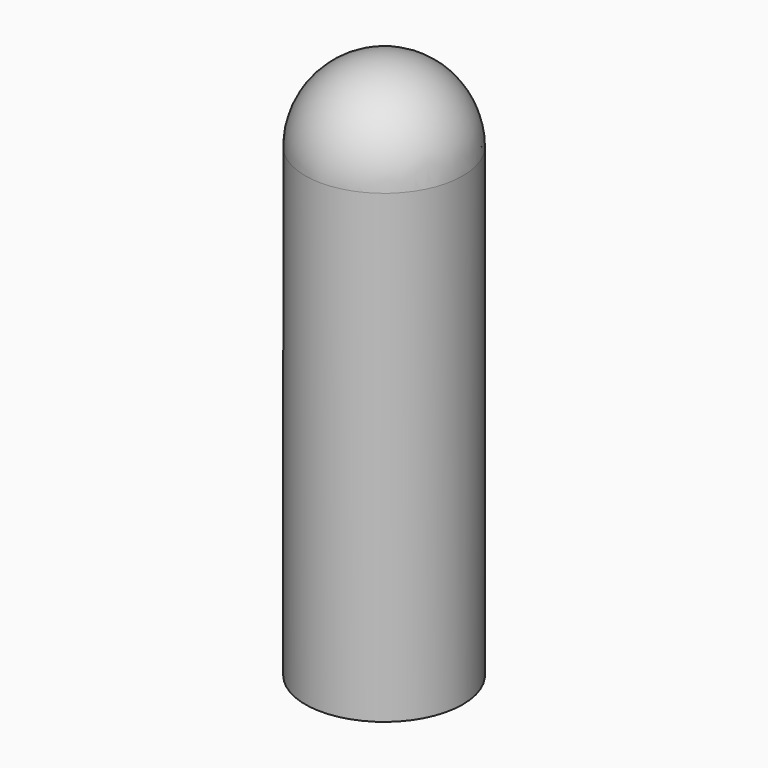
from build123d import *

# Parameters (mm, degrees)
F0_R     = 187.5
F1_DEPTH = 1102.5
F4_R     = 180.5
F5_DEPTH = 1102.5
F6_R     = 187.5
F6_R_2   = 180.5
F7_DEPTH = 5


with BuildPart() as f1:
    # F0 (on Top) → F1 (new body)
    with BuildSketch(Plane.XY):
        Circle(F0_R)
    extrude(amount=F1_DEPTH)

    # F2 (on face) → F3 (revolve)
    with BuildSketch(Plane.XY.offset(1102.5)):
        with BuildLine():
            Line((0, 180.5), (0, 187.5))
            ThreePointArc((0, 187.5), (-187.5, 0), (0, -187.5))
            Line((0, -187.5), (0, -180.5))
            ThreePointArc((0, -180.5), (-180.5, 0), (0, 180.5))
        make_face()
    revolve(axis=Axis((0, -93.75, 1102.5), (0, -1, 0)))

    # F4 (on face) → F5 (cut)
    with BuildSketch(Plane(origin=(0, 0, 0), x_dir=(1, 0, 0), z_dir=(0, 0, -1))):
        Circle(F4_R)
    extrude(amount=-F5_DEPTH, mode=Mode.SUBTRACT)

    # F6 (on face) → F7 (join)
    with BuildSketch(Plane(origin=(0, 0, 0), x_dir=(1, 0, 0), z_dir=(0, 0, -1))):
        Circle(F6_R)
        Circle(F6_R_2)
    extrude(amount=F7_DEPTH)


solid = f1.part
